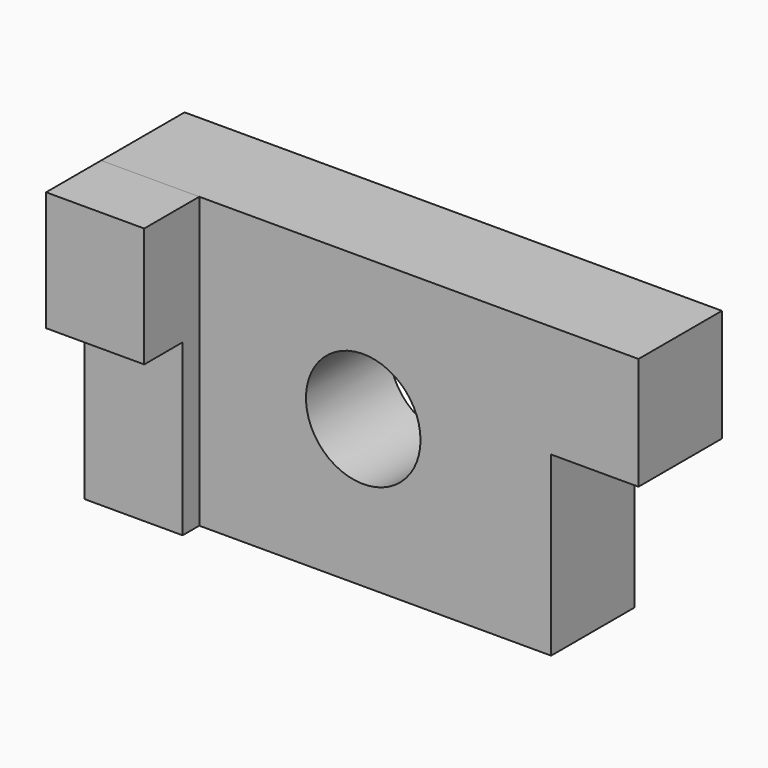
from build123d import *

# Parameters (mm, degrees)
F0_W     = 130.872465
F0_H     = 70.537049
F0_R     = 13.948248
F1_DEPTH = 25.4
F2_W     = 21.569185
F2_H     = 43.13836
F3_DEPTH = 40.386
F4_W     = 23.900985
F4_H     = 41.389507
F5_DEPTH = 30.48
F6_W     = 23.900985
F6_H     = 29.147542
F7_DEPTH = 42.164


with BuildPart() as f1:
    # F0 (on Front) → F1 (new body)
    with BuildSketch(Plane.XZ):
        with Locations((1.603116, 3.643444)):
            Rectangle(F0_W, F0_H)
        with Locations((0, 4.226394)):
            Circle(F0_R, mode=Mode.SUBTRACT)
    extrude(amount=F1_DEPTH)

    # F2 (on Front) → F3 (cut)
    with BuildSketch(Plane.XZ):
        with Locations((56.546229, -10.055901)):
            Rectangle(F2_W, F2_H)
    extrude(amount=F3_DEPTH, mode=Mode.SUBTRACT)

    # F4 (on Front) → F5 (join)
    with BuildSketch(Plane.XZ):
        with Locations((-51.882624, -10.930327)):
            Rectangle(F4_W, F4_H)
    extrude(amount=F5_DEPTH)

    # F6 (on Front) → F7 (join)
    with BuildSketch(Plane.XZ):
        with Locations((-51.882624, 24.338197)):
            Rectangle(F6_W, F6_H)
    extrude(amount=F7_DEPTH)


solid = f1.part
